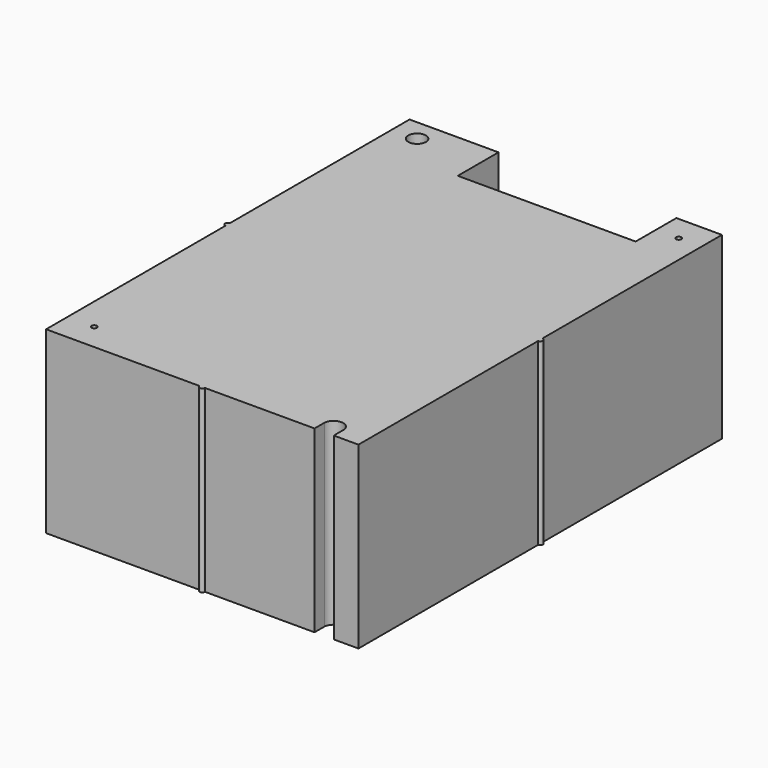
from build123d import *

# Parameters (mm, degrees)
F0_R     = 0.5
F0_R_2   = 1.65
F1_DEPTH = 33.5


with BuildPart() as f1:
    # F0 (on Top) → F1 (new body)
    with BuildSketch(Plane.XY):
        with BuildLine():
            Line((-12.55, 42.4), (-29.15, 42.4))
            Line((-29.15, 42.4), (-29.15, 0.5))
            ThreePointArc((-29.15, 0.5), (-28.7964466094, 0.3535533906), (-28.65, 0))
            ThreePointArc((-28.65, 0), (-28.7964466094, -0.3535533906), (-29.15, -0.5))
            Line((-29.15, -0.5), (-29.15, -42.4))
            Line((-29.15, -42.4), (-0.5, -42.4))
            ThreePointArc((-0.5, -42.4), (0, -41.9), (0.5, -42.4))
            Line((0.5, -42.4), (20.9529261778, -42.4))
            Line((20.9529261778, -42.4), (20.9529261778, -40.0974052754))
            ThreePointArc((20.9529261778, -40.0974052754), (22.75, -38.4), (24.5470738222, -40.0974052754))
            Line((24.5470738222, -40.0974052754), (24.5470738222, -42.4))
            Line((24.5470738222, -42.4), (29.15, -42.4))
            Line((29.15, -42.4), (29.15, -0.5))
            ThreePointArc((29.15, -0.5), (28.65, 0), (29.15, 0.5))
            Line((29.15, 0.5), (29.15, 42.4))
            Line((29.15, 42.4), (20.65, 42.4))
            Line((20.65, 42.4), (20.65, 32.9))
            Line((20.65, 32.9), (-12.55, 32.9))
            Line((-12.55, 32.9), (-12.55, 42.2510281205))
            Line((-12.55, 42.2510281205), (-12.55, 42.4))
        make_face()
        with Locations((-24.15, -37.4)):
            Circle(F0_R, mode=Mode.SUBTRACT)
        with Locations((-24.5, 38.35)):
            Circle(F0_R_2, mode=Mode.SUBTRACT)
        with Locations((24.9, 37.65)):
            Circle(F0_R, mode=Mode.SUBTRACT)
        with BuildLine():
            ThreePointArc((-28.65, 0), (-28.7964466094, 0.3535533906), (-29.15, 0.5))
            Line((-29.15, 0.5), (-29.15, -0.5))
            ThreePointArc((-29.15, -0.5), (-28.7964466094, -0.3535533906), (-28.65, 0))
        make_face()
        with BuildLine():
            Line((-29.15, -0.5), (-29.15, 0.5))
            ThreePointArc((-29.15, 0.5), (-29.65, 0), (-29.15, -0.5))
        make_face()
        with BuildLine():
            ThreePointArc((0.5, -42.4), (0, -41.9), (-0.5, -42.4))
            Line((-0.5, -42.4), (0.5, -42.4))
        make_face()
        with BuildLine():
            Line((0.5, -42.4), (-0.5, -42.4))
            ThreePointArc((-0.5, -42.4), (0, -42.9), (0.5, -42.4))
        make_face()
        with BuildLine():
            ThreePointArc((29.65, 0), (29.5035533906, 0.3535533906), (29.15, 0.5))
            Line((29.15, 0.5), (29.15, -0.5))
            ThreePointArc((29.15, -0.5), (29.5035533906, -0.3535533906), (29.65, 0))
        make_face()
        with BuildLine():
            Line((29.15, -0.5), (29.15, 0.5))
            ThreePointArc((29.15, 0.5), (28.65, 0), (29.15, -0.5))
        make_face()
    extrude(amount=F1_DEPTH)


solid = f1.part
